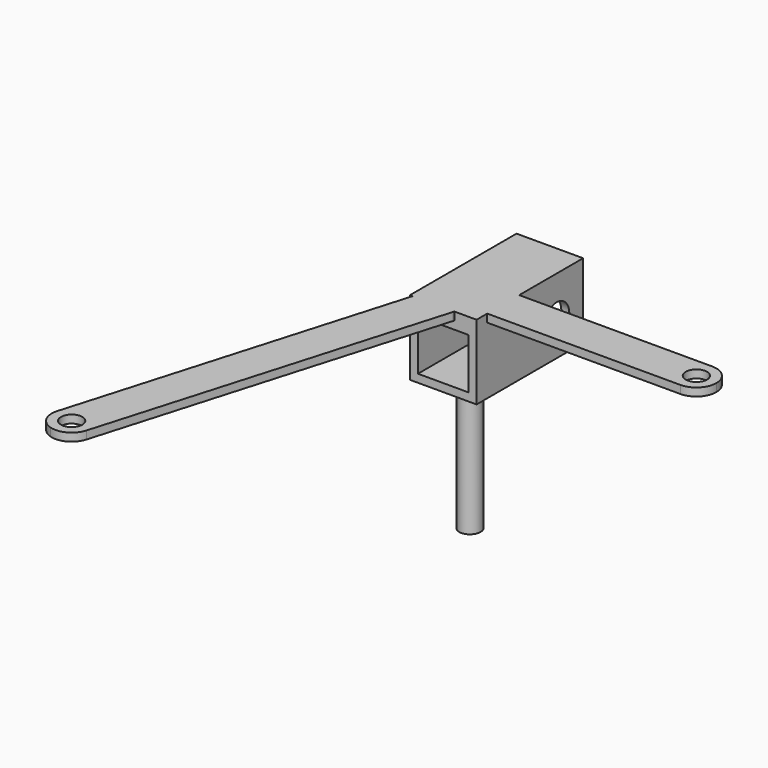
from build123d import *

# Parameters (mm, degrees)
F0_R     = 4
F1_DEPTH = 3
F2_W     = 25
F2_H     = 50
F3_DEPTH = 28
F5_R     = 6
F6_DEPTH = 25
F7_W     = 19
F7_H     = 19
F8_DEPTH = 50
F4_R     = 4
F9_DEPTH = 50


with BuildPart() as f1:
    # F0 (on Top) → F1 (new body)
    with BuildSketch(Plane.XY):
        with BuildLine():
            Line((85, 7.5), (12.5, 7.5))
            Line((12.5, 7.5), (12.5, 37.5))
            Line((12.5, 37.5), (-12.5, 37.5))
            Line((-12.5, 37.5), (-12.5, -12.5))
            Line((-12.5, -12.5), (-11.479756, -12.5))
            Line((-11.479756, -12.5), (-47.281972, -134.636232))
            ThreePointArc((-47.281972, -134.636232), (-46.665777, -140.343315), (-42.194544, -143.943115))
            ThreePointArc((-42.194544, -143.943115), (-36.487461, -143.32692), (-32.887661, -138.855687))
            Line((-32.887661, -138.855687), (4.037017, -12.890273))
            ThreePointArc((4.037017, -12.890273), (4.097393, -12.694274), (4.163105, -12.5))
            Line((4.163105, -12.5), (12.5, -12.5))
            Line((12.5, -12.5), (12.5, -7.5))
            Line((12.5, -7.5), (85, -7.5))
            ThreePointArc((85, -7.5), (90.303301, -5.303301), (92.5, 0))
            ThreePointArc((92.5, 0), (90.303301, 5.303301), (85, 7.5))
        make_face()
        with Locations((-40.084816, -136.74596)):
            Circle(F0_R, mode=Mode.SUBTRACT)
        with Locations((85, 0)):
            Circle(F0_R, mode=Mode.SUBTRACT)
    extrude(amount=F1_DEPTH)

    # F2 (on face) → F3 (join)
    with BuildSketch(Plane.XY.offset(3)):
        with Locations((0, 12.5)):
            Rectangle(F2_W, F2_H)
    extrude(amount=-F3_DEPTH)

    # F5 (on face) → F6 (cut)
    with BuildSketch(Plane(origin=(-12.5, 0, 0), x_dir=(0, -1, 0), z_dir=(-1, 0, 0))):
        with Locations((-25, -12.5)):
            Circle(F5_R)
    extrude(amount=-F6_DEPTH, mode=Mode.SUBTRACT)

    # F7 (on face) → F8 (cut)
    with BuildSketch(Plane.XZ.offset(12.5)):
        with Locations((0, -12.5)):
            Rectangle(F7_W, F7_H)
    extrude(amount=-F8_DEPTH, mode=Mode.SUBTRACT)

    # F4 (on face) → F9 (join)
    with BuildSketch(Plane(origin=(0, 0, -25), x_dir=(1, 0, 0), z_dir=(0, 0, -1))):
        Circle(F4_R)
    extrude(amount=F9_DEPTH)


solid = f1.part
